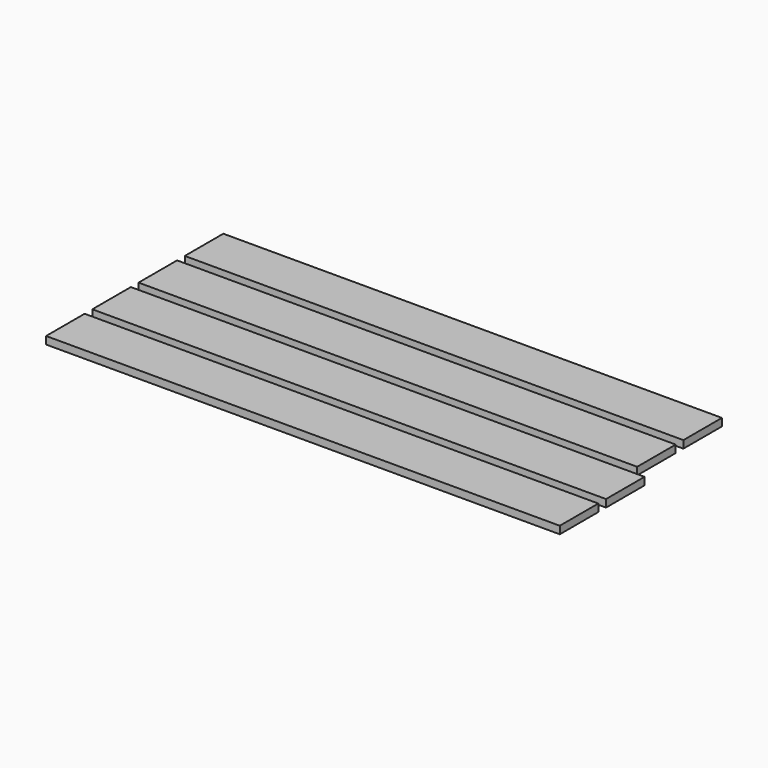
from build123d import *

# Parameters (mm, degrees)
F0_W     = 203.2
F0_H     = 19.05
F0_W_2   = 197.231
F1_DEPTH = 2.9845


with BuildPart() as f1:
    # F0 (on Top) → F1 (new body)
    with BuildSketch(Plane.XY):
        with Locations((101.6, 9.525)):
            Rectangle(F0_W, F0_H)
        with Locations((101.6, 32.385)):
            Rectangle(F0_W, F0_H)
        with Locations((98.6155, 55.245)):
            Rectangle(F0_W_2, F0_H)
        with Locations((98.6155, 78.105)):
            Rectangle(F0_W_2, F0_H)
    extrude(amount=F1_DEPTH)


solid = f1.part
